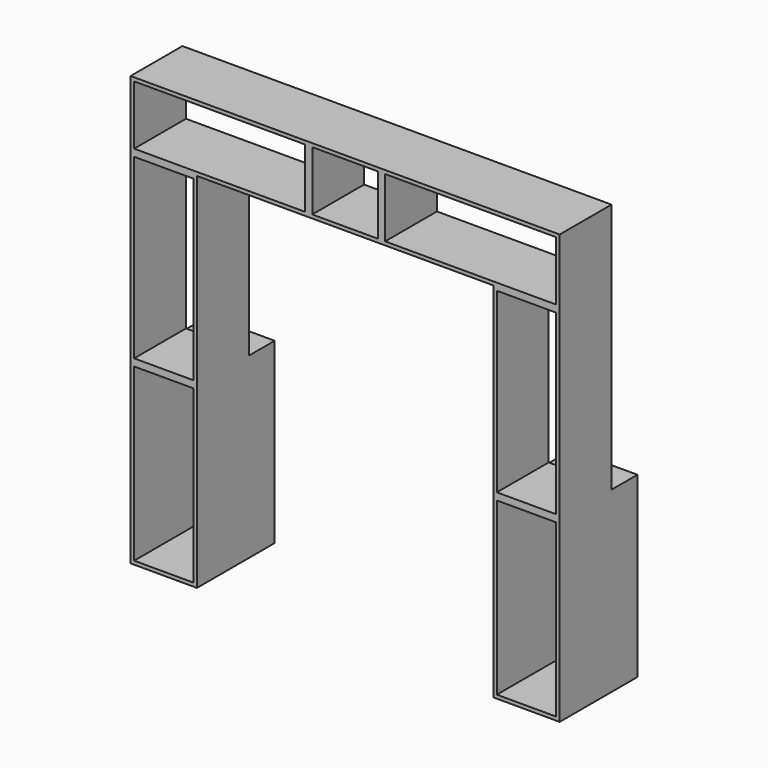
from build123d import *

# Parameters (mm, degrees)
F0_W     = 366
F0_H     = 1056
F0_H_2   = 1096
F0_W_2   = 1056
F0_H_3   = 366
F0_W_3   = 406
F1_DEPTH = 600
F2_W     = 200
F2_H     = 1550
F3_DEPTH = 2650.001


with BuildPart() as f1:
    # F0 (on Front) → F1 (new body)
    with BuildSketch(Plane.XZ):
        Polygon((1325, 1325), (-1325, 1325), (-1325, -1325), (-915, -1325), (-915, 915), (915, 915), (915, -203), (915, -1325), (1325, -1325), (1325, -203), align=None)
        with Locations((-1120, -775)):
            Rectangle(F0_W, F0_H, mode=Mode.SUBTRACT)
        with Locations((1120, -775)):
            Rectangle(F0_W, F0_H, mode=Mode.SUBTRACT)
        with Locations((-1120, 345)):
            Rectangle(F0_W, F0_H_2, mode=Mode.SUBTRACT)
        with Locations((-775, 1120)):
            Rectangle(F0_W_2, F0_H_3, mode=Mode.SUBTRACT)
        with Locations((1120, 345)):
            Rectangle(F0_W, F0_H_2, mode=Mode.SUBTRACT)
        with Locations((0, 1120)):
            Rectangle(F0_W_3, F0_H_3, mode=Mode.SUBTRACT)
        with Locations((775, 1120)):
            Rectangle(F0_W_2, F0_H_3, mode=Mode.SUBTRACT)
    extrude(amount=F1_DEPTH)

    # F2 (on face) → F3 (cut, through all)
    with BuildSketch(Plane.YZ.offset(1325)):
        with Locations((-100, 550)):
            Rectangle(F2_W, F2_H)
    extrude(amount=-F3_DEPTH, mode=Mode.SUBTRACT)


solid = f1.part
